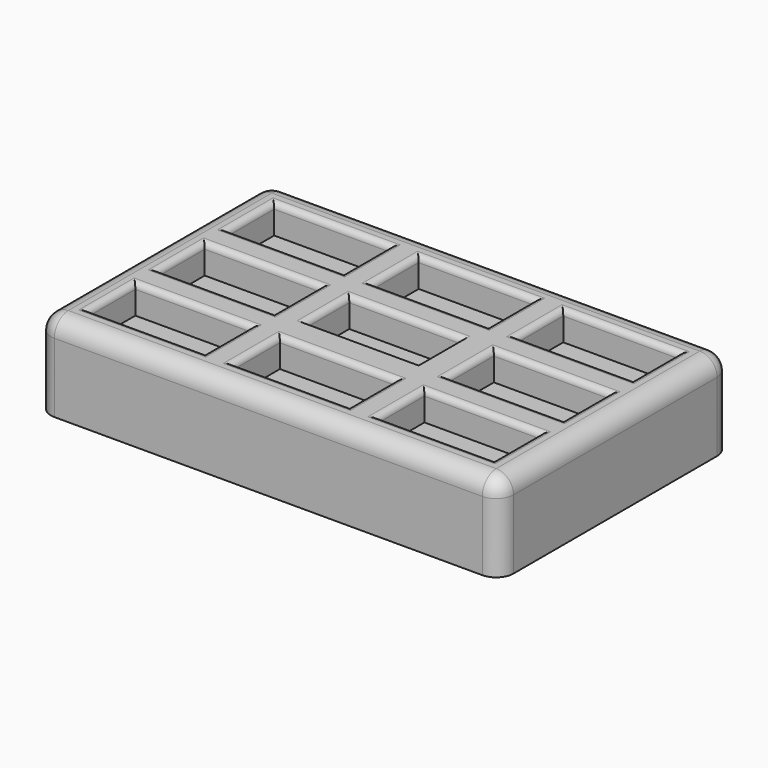
from build123d import *

# Parameters (mm, degrees)
F0_W     = 80
F0_H     = 50
F0_W_2   = 20
F0_H_2   = 10
F1_DEPTH = 10
F2_DEPTH = 5
F3_R     = 3
F4_R     = 1


with BuildPart() as f1:
    # F0 (on Top) → F1 (new body)
    with BuildSketch(Plane.XY):
        Rectangle(F0_W, F0_H)
        with Locations((-25, -15)):
            Rectangle(F0_W_2, F0_H_2, mode=Mode.SUBTRACT)
        with Locations((0, -15)):
            Rectangle(F0_W_2, F0_H_2, mode=Mode.SUBTRACT)
        with Locations((25, -15)):
            Rectangle(F0_W_2, F0_H_2, mode=Mode.SUBTRACT)
        with Locations((-25, 0)):
            Rectangle(F0_W_2, F0_H_2, mode=Mode.SUBTRACT)
        with Locations((-25, 15)):
            Rectangle(F0_W_2, F0_H_2, mode=Mode.SUBTRACT)
        Rectangle(F0_W_2, F0_H_2, mode=Mode.SUBTRACT)
        with Locations((25, 0)):
            Rectangle(F0_W_2, F0_H_2, mode=Mode.SUBTRACT)
        with Locations((0, 15)):
            Rectangle(F0_W_2, F0_H_2, mode=Mode.SUBTRACT)
        with Locations((25, 15)):
            Rectangle(F0_W_2, F0_H_2, mode=Mode.SUBTRACT)
        with Locations((-25, 15)):
            Rectangle(F0_W_2, F0_H_2)
        with Locations((0, 15)):
            Rectangle(F0_W_2, F0_H_2)
        with Locations((25, 15)):
            Rectangle(F0_W_2, F0_H_2)
        with Locations((25, 0)):
            Rectangle(F0_W_2, F0_H_2)
        Rectangle(F0_W_2, F0_H_2)
        with Locations((-25, 0)):
            Rectangle(F0_W_2, F0_H_2)
        with Locations((-25, -15)):
            Rectangle(F0_W_2, F0_H_2)
        with Locations((0, -15)):
            Rectangle(F0_W_2, F0_H_2)
        with Locations((25, -15)):
            Rectangle(F0_W_2, F0_H_2)
    extrude(amount=-F1_DEPTH)

    # F0 (on Top) → F2 (join)
    with BuildSketch(Plane.XY):
        Rectangle(F0_W, F0_H)
        with Locations((-25, -15)):
            Rectangle(F0_W_2, F0_H_2, mode=Mode.SUBTRACT)
        with Locations((0, -15)):
            Rectangle(F0_W_2, F0_H_2, mode=Mode.SUBTRACT)
        with Locations((25, -15)):
            Rectangle(F0_W_2, F0_H_2, mode=Mode.SUBTRACT)
        with Locations((-25, 0)):
            Rectangle(F0_W_2, F0_H_2, mode=Mode.SUBTRACT)
        with Locations((-25, 15)):
            Rectangle(F0_W_2, F0_H_2, mode=Mode.SUBTRACT)
        Rectangle(F0_W_2, F0_H_2, mode=Mode.SUBTRACT)
        with Locations((25, 0)):
            Rectangle(F0_W_2, F0_H_2, mode=Mode.SUBTRACT)
        with Locations((0, 15)):
            Rectangle(F0_W_2, F0_H_2, mode=Mode.SUBTRACT)
        with Locations((25, 15)):
            Rectangle(F0_W_2, F0_H_2, mode=Mode.SUBTRACT)
    extrude(amount=F2_DEPTH)

    # F3
    f3_edges = [f1.edges().sort_by_distance(p)[0] for p in [
        (-40, -25, -2.5),
        (40, -25, -2.5),
        (0, -25, 5),
        (-40, 0, 5),
        (40, 0, 5),
        (40, 25, -2.5),
        (0, 25, 5),
        (-40, 25, -2.5),
    ]]
    fillet(f3_edges, radius=F3_R)

    # F4
    f4_edges = [f1.edges().sort_by_distance(p)[0] for p in [
        (-15, -15, 5),
        (-25, -10, 5),
        (-35, -15, 5),
        (-25, -20, 5),
        (-15, 0, 5),
        (-25, -5, 5),
        (-35, 0, 5),
        (-25, 5, 5),
        (-25, 20, 5),
        (-15, 15, 5),
        (-25, 10, 5),
        (-35, 15, 5),
        (-10, 15, 5),
        (0, 20, 5),
        (0, 10, 5),
        (10, 15, 5),
        (0, 5, 5),
        (-10, 0, 5),
        (-10, -15, 5),
        (0, -10, 5),
        (0, -20, 5),
        (10, -15, 5),
        (15, 0, 5),
        (25, 5, 5),
        (15, 15, 5),
        (25, 20, 5),
        (25, -5, 5),
        (15, -15, 5),
        (25, -10, 5),
        (25, -20, 5),
        (35, -15, 5),
        (35, 0, 5),
        (35, 15, 5),
        (25, 10, 5),
    ]]
    fillet(f4_edges, radius=F4_R)


solid = f1.part
